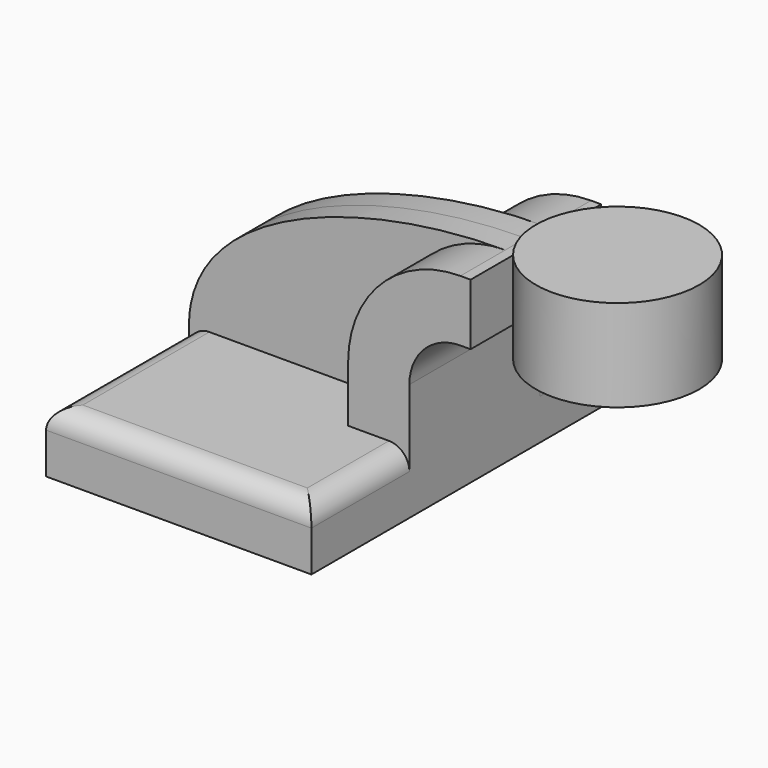
from build123d import *

# Parameters (mm, degrees)
F1_DEPTH = 63.5
F2_DEPTH = 25.4
F3_DEPTH = 7.9375
F5_R     = 6.35


with BuildPart() as f1:
    # F0 (on Front) → F1 (new body, symmetric)
    with BuildSketch(Plane.XZ):
        Polygon((-41.275, -9.525), (41.275, -9.525), (41.275, 9.525), (22.225, 9.525), (-41.275, 9.525), align=None)
    extrude(amount=F1_DEPTH, both=True)

    # F0 (on Front) → F2 (join, symmetric)
    with BuildSketch(Plane.XZ):
        with BuildLine():
            Line((22.225, 9.525), (41.275, 9.525))
            Line((41.275, 9.525), (41.275, 27.0002))
            ThreePointArc((41.275, 27.0002), (45.9246798487, 38.2255201513), (57.15, 42.8752))
            Line((57.15, 42.8752), (60.325, 42.8752))
            Line((60.325, 42.8752), (60.325, 61.9252))
            Line((60.325, 61.9252), (57.15, 61.9252))
            ThreePointArc((57.15, 61.9252), (32.4542956671, 51.6959043329), (22.225, 27.0002))
            Line((22.225, 27.0002), (22.225, 9.525))
        make_face()
    extrude(amount=F2_DEPTH, both=True)

    # F0 (on Front) → F3 (join, symmetric)
    with BuildSketch(Plane.XZ):
        with BuildLine():
            add(Edge.make_bspline(
                [(57.15, 61.9252), (13.4781720117, 61.9965195656), (-40.9242771566, 44.5877350867), (-41.275, 9.525)],
                knots=[0, 0, 0, 0, 111.5045361635, 111.5045361635, 111.5045361635, 111.5045361635], degree=3))
            Line((-41.275, 9.525), (22.225, 9.525))
            Line((22.225, 9.525), (22.225, 27.0002))
            ThreePointArc((22.225, 27.0002), (32.4542956671, 51.6959043329), (57.15, 61.9252))
        make_face()
    extrude(amount=F3_DEPTH, both=True)

    # F0 (on Front) → F4 (revolve)
    with BuildSketch(Plane.XZ):
        Polygon((85.725, 66.675), (85.725, 61.9252), (85.725, 42.8752), (85.725, 38.1), (111.125, 38.1), (111.125, 66.675), align=None)
    revolve(axis=Axis((85.725, 0, 52.3875), (0, 0, 1)))

    # F5
    f5_edges = [f1.edges().sort_by_distance(p)[0] for p in [
        (-41.275, -35.71875, 9.525),
        (0, -63.5, 9.525),
        (-41.275, 35.71875, 9.525),
        (0, 63.5, 9.525),
        (41.275, 44.45, 9.525),
        (41.275, -44.45, 9.525),
    ]]
    fillet(f5_edges, radius=F5_R)


solid = f1.part
